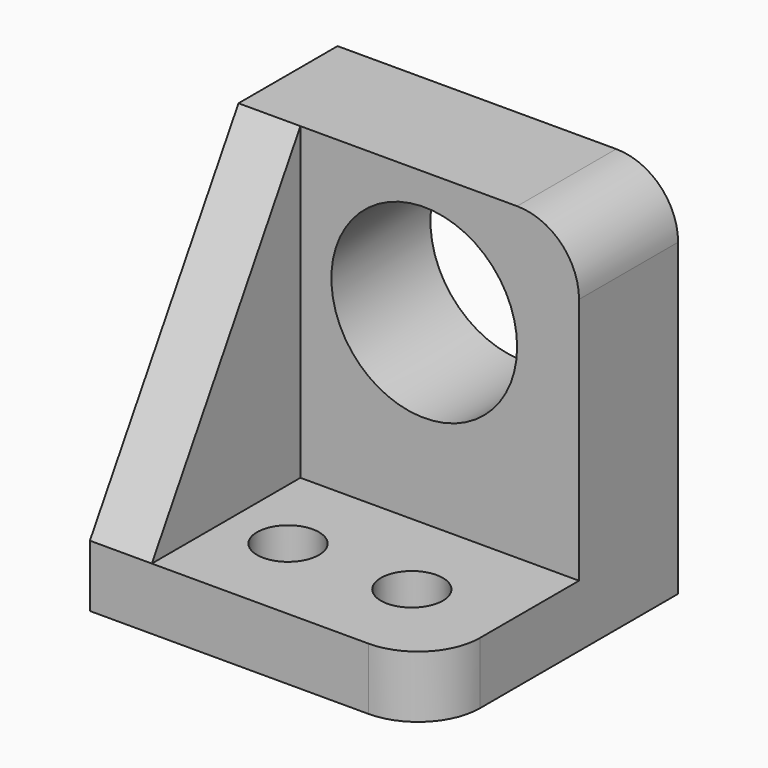
from build123d import *

# Parameters (mm, degrees)
F0_R     = 50
F0_W     = 100
F0_H     = 300
F1_DEPTH = 100
F2_DEPTH = 600
F3_R     = 100
F5_DEPTH = 100
F6_R     = 150
F7_DEPTH = 200


with BuildPart() as f1:
    # F0 (on Top) → F1 (new body)
    with BuildSketch(Plane.XY):
        with BuildLine():
            Line((-175, -250), (175, -250))
            ThreePointArc((175, -250), (245.7106781187, -220.7106781187), (275, -150))
            Line((275, -150), (275, 50))
            Line((275, 50), (-175, 50))
            Line((-175, 50), (-175, -250))
        make_face()
        with Locations((-75, -100)):
            Circle(F0_R, mode=Mode.SUBTRACT)
        with Locations((125, -100)):
            Circle(F0_R, mode=Mode.SUBTRACT)
        Polygon((-275, 50), (-175, 50), (275, 50), (275, 250), (-275, 250), align=None)
        with Locations((-225, -100)):
            Rectangle(F0_W, F0_H)
    extrude(amount=F1_DEPTH)

    # F0 (on Top) → F2 (join)
    with BuildSketch(Plane.XY):
        Polygon((-275, 50), (-175, 50), (275, 50), (275, 250), (-275, 250), align=None)
        with Locations((-225, -100)):
            Rectangle(F0_W, F0_H)
    extrude(amount=F2_DEPTH)

    # F3
    f3_edges = [f1.edges().sort_by_distance(p)[0] for p in [
        (275, 150, 600),
    ]]
    fillet(f3_edges, radius=F3_R)

    # F4 (on face) → F5 (cut)
    with BuildSketch(Plane.YZ.offset(-175)):
        Polygon((-250, 100), (50, 600), (-250, 600), align=None)
    extrude(amount=-F5_DEPTH, mode=Mode.SUBTRACT)

    # F6 (on face) → F7 (cut)
    with BuildSketch(Plane.XZ.offset(-50)):
        with Locations((25, 400)):
            Circle(F6_R)
    extrude(amount=-F7_DEPTH, mode=Mode.SUBTRACT)


solid = f1.part
